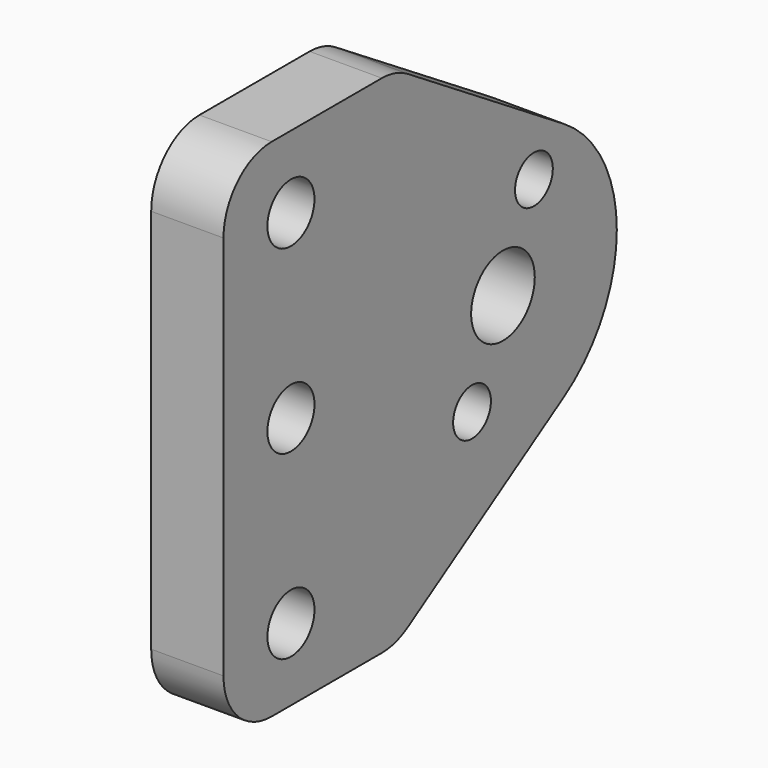
from build123d import *

# Parameters (mm, degrees)
F0_R     = 3.1
F0_R_2   = 2.4892
F0_R_3   = 4.191
F1_DEPTH = 3.81
F2_R     = 6.35


with BuildPart() as f1:
    # F0 (on Right) → F1 (new body, symmetric)
    with BuildSketch(Plane.YZ):
        with BuildLine():
            Line((13.8176, 26.67), (-8.89, 26.67))
            Line((-8.89, 26.67), (-8.89, -26.67))
            Line((-8.89, -26.67), (13.8176, -26.67))
            Line((13.8176, -26.67), (35.953734, -12.679908))
            ThreePointArc((35.953734, -12.679908), (42.94, 0), (35.953734, 12.679908))
            Line((35.953734, 12.679908), (13.8176, 26.67))
        make_face()
        with Locations((0, -19.05)):
            Circle(F0_R, mode=Mode.SUBTRACT)
        Circle(F0_R, mode=Mode.SUBTRACT)
        with Locations((23.861645, -9.130554)):
            Circle(F0_R_2, mode=Mode.SUBTRACT)
        with Locations((27.94, 0)):
            Circle(F0_R_3, mode=Mode.SUBTRACT)
        with Locations((0, 19.05)):
            Circle(F0_R, mode=Mode.SUBTRACT)
        with Locations((32.018355, 9.130554)):
            Circle(F0_R_2, mode=Mode.SUBTRACT)
    extrude(amount=F1_DEPTH, both=True)

    # F2
    f2_edges = [f1.edges().sort_by_distance(p)[0] for p in [
        (0, -8.89, 26.67),
        (0, 13.8176, 26.67),
        (0, -8.89, -26.67),
        (0, 13.8176, -26.67),
    ]]
    fillet(f2_edges, radius=F2_R)


solid = f1.part
